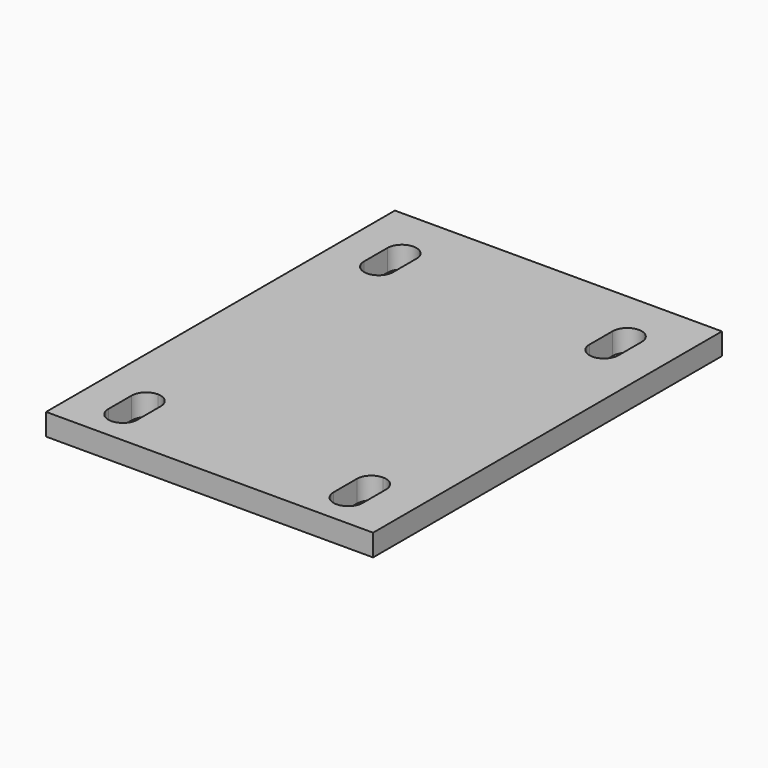
from build123d import *

# Parameters (mm, degrees)
F0_W     = 45
F0_H     = 60
F1_DEPTH = 3


with BuildPart() as f1:
    # F0 (on Top) → F1 (new body)
    with BuildSketch(Plane.XY):
        Rectangle(F0_W, F0_H)
        with BuildLine():
            ThreePointArc((-13.6944653346, -25.298272824), (-15.6944653346, -27.298272824), (-17.6944653346, -25.298272824))
            Line((-17.6944653346, -25.298272824), (-17.6944653346, -21.298272824))
            ThreePointArc((-17.6944653346, -21.298272824), (-17.1086788969, -19.8840592617), (-15.6944653346, -19.298272824))
            Line((-15.6944653346, -19.298272824), (-15.6944653346, 16.701727176))
            ThreePointArc((-15.6944653346, 16.701727176), (-17.1086788969, 17.2875136136), (-17.6944653346, 18.701727176))
            Line((-17.6944653346, 18.701727176), (-17.6944653346, 22.701727176))
            ThreePointArc((-17.6944653346, 22.701727176), (-15.6944653346, 24.701727176), (-13.6944653346, 22.701727176))
            Line((-13.6944653346, 22.701727176), (-13.6944653346, 20.701727176))
            Line((-13.6944653346, 20.701727176), (13.3055346654, 20.701727176))
            Line((13.3055346654, 20.701727176), (13.3055346654, 22.701727176))
            ThreePointArc((13.3055346654, 22.701727176), (15.3055346654, 24.701727176), (17.3055346654, 22.701727176))
            Line((17.3055346654, 22.701727176), (17.3055346654, 18.701727176))
            ThreePointArc((17.3055346654, 18.701727176), (16.7197482278, 17.2875136136), (15.3055346654, 16.701727176))
            Line((15.3055346654, 16.701727176), (15.3055346654, -19.298272824))
            ThreePointArc((15.3055346654, -19.298272824), (16.7197482278, -19.8840592617), (17.3055346654, -21.298272824))
            Line((17.3055346654, -21.298272824), (17.3055346654, -25.298272824))
            ThreePointArc((17.3055346654, -25.298272824), (15.3055346654, -27.298272824), (13.3055346654, -25.298272824))
            Line((13.3055346654, -25.298272824), (13.3055346654, -23.298272824))
            Line((13.3055346654, -23.298272824), (-13.6944653346, -23.298272824))
            Line((-13.6944653346, -23.298272824), (-13.6944653346, -25.298272824))
        make_face(mode=Mode.SUBTRACT)
        with BuildLine():
            Line((-13.6944653346, -21.298272824), (-13.6944653346, -23.298272824))
            Line((-13.6944653346, -23.298272824), (13.3055346654, -23.298272824))
            Line((13.3055346654, -23.298272824), (13.3055346654, -21.298272824))
            ThreePointArc((13.3055346654, -21.298272824), (13.8913211031, -19.8840592617), (15.3055346654, -19.298272824))
            Line((15.3055346654, -19.298272824), (15.3055346654, 16.701727176))
            ThreePointArc((15.3055346654, 16.701727176), (13.8913211031, 17.2875136136), (13.3055346654, 18.701727176))
            Line((13.3055346654, 18.701727176), (13.3055346654, 20.701727176))
            Line((13.3055346654, 20.701727176), (-13.6944653346, 20.701727176))
            Line((-13.6944653346, 20.701727176), (-13.6944653346, 18.701727176))
            ThreePointArc((-13.6944653346, 18.701727176), (-14.2802517722, 17.2875136136), (-15.6944653346, 16.701727176))
            Line((-15.6944653346, 16.701727176), (-15.6944653346, -19.298272824))
            ThreePointArc((-15.6944653346, -19.298272824), (-14.2802517722, -19.8840592617), (-13.6944653346, -21.298272824))
        make_face()
    extrude(amount=F1_DEPTH)


solid = f1.part
